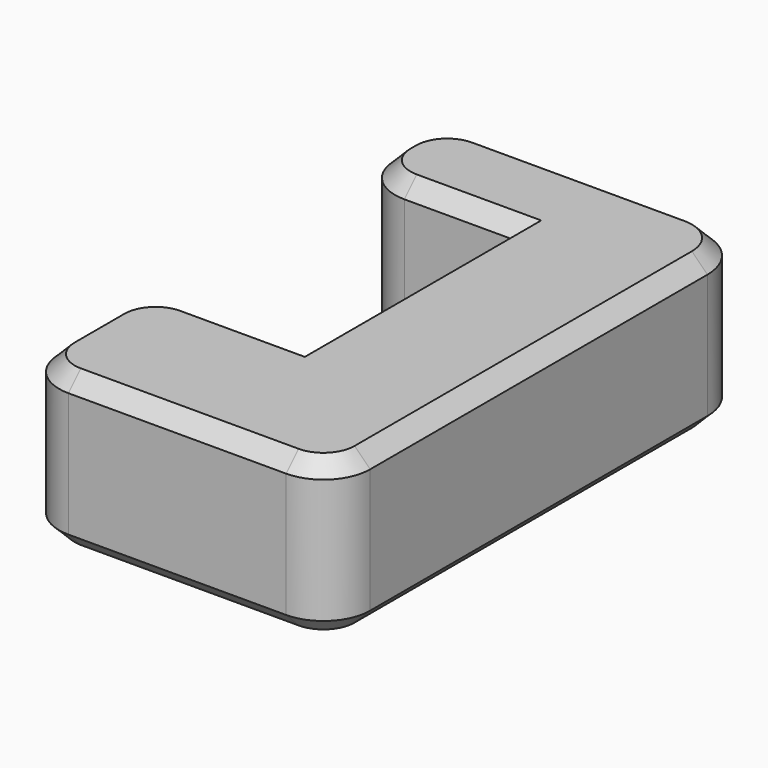
from build123d import *

# Parameters (mm, degrees)
F1_DEPTH = 3
F2_SIZE  = 0.3


with BuildPart() as f1:
    # F0 (on Top) → F1 (new body)
    with BuildSketch(Plane.XY):
        with BuildLine():
            ThreePointArc((0, 9), (0.263604, 8.363604), (0.9, 8.1))
            Line((0.9, 8.1), (3, 8.1))
            Line((3, 8.1), (3, 3))
            Line((3, 3), (0.9, 3))
            ThreePointArc((0.9, 3), (0.263604, 2.736396), (0, 2.1))
            Line((0, 2.1), (0, 0.9))
            ThreePointArc((0, 0.9), (0.263604, 0.263604), (0.9, 0))
            Line((0.9, 0), (5.1, 0))
            ThreePointArc((5.1, 0), (5.736396, 0.263604), (6, 0.9))
            Line((6, 0.9), (6, 9.033599))
            ThreePointArc((6, 9.033599), (5.707107, 9.740706), (5, 10.033599))
            Line((5, 10.033599), (0.9, 10.033599))
            ThreePointArc((0.9, 10.033599), (0.263604, 9.769995), (0, 9.133599))
            Line((0, 9.133599), (0, 9))
        make_face()
    extrude(amount=F1_DEPTH)

    # F2
    f2_edges = [f1.edges().sort_by_distance(p)[0] for p in [
        (0.263604, 8.363604, 3),
        (1.95, 8.1, 3),
        (3, 5.55, 3),
        (1.95, 3, 3),
        (0.263604, 2.736396, 3),
        (0, 1.5, 3),
        (0.263604, 0.263604, 3),
        (3, 0, 3),
        (5.736396, 0.263604, 3),
        (6, 4.966799, 3),
        (5.707107, 9.740706, 3),
        (2.95, 10.033599, 3),
        (0.263604, 9.769995, 3),
        (0, 9.066799, 3),
        (0.263604, 8.363604, 0),
        (1.95, 8.1, 0),
        (3, 5.55, 0),
        (1.95, 3, 0),
        (0.263604, 2.736396, 0),
        (0, 1.5, 0),
        (0.263604, 0.263604, 0),
        (3, 0, 0),
        (5.736396, 0.263604, 0),
        (6, 4.966799, 0),
        (5.707107, 9.740706, 0),
        (2.95, 10.033599, 0),
        (0.263604, 9.769995, 0),
        (0, 9.066799, 0),
    ]]
    chamfer(f2_edges, length=F2_SIZE)


solid = f1.part
